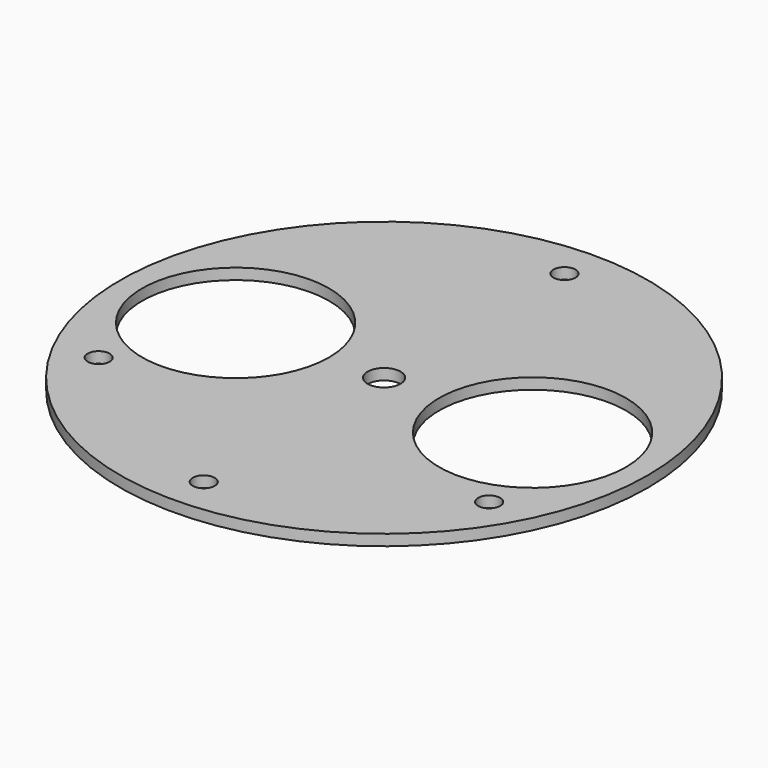
from build123d import *

# Parameters (mm, degrees)
F0_R     = 72
F1_DEPTH = 3
F2_R     = 25.5
F3_DEPTH = 3
F4_R     = 3
F4_R_2   = 4.5
F5_DEPTH = 25.4
F6_R     = 3
F7_DEPTH = 25.4


with BuildPart() as f1:
    # F0 (on Top) → F1 (new body)
    with BuildSketch(Plane.XY):
        Circle(F0_R)
    extrude(amount=F1_DEPTH)

    # F2 (on face) → F3 (cut)
    with BuildSketch(Plane.XY.offset(3)):
        with Locations((-40.5, 0)):
            Circle(F2_R)
        with Locations((40.5, 0)):
            Circle(F2_R)
    extrude(amount=-F3_DEPTH, mode=Mode.SUBTRACT)

    # F4 (on face) → F5 (cut)
    with BuildSketch(Plane.XY.offset(3)):
        with Locations((0, 61.5)):
            Circle(F4_R)
        Circle(F4_R_2)
        with Locations((0, -61.5)):
            Circle(F4_R)
    extrude(amount=-F5_DEPTH, mode=Mode.SUBTRACT)

    # F6 (on face) → F7 (cut)
    with BuildSketch(Plane.XY.offset(3)):
        with Locations((-53.260562, -30.75)):
            Circle(F6_R)
        with Locations((53.260562, -30.75)):
            Circle(F6_R)
    extrude(amount=-F7_DEPTH, mode=Mode.SUBTRACT)


solid = f1.part
